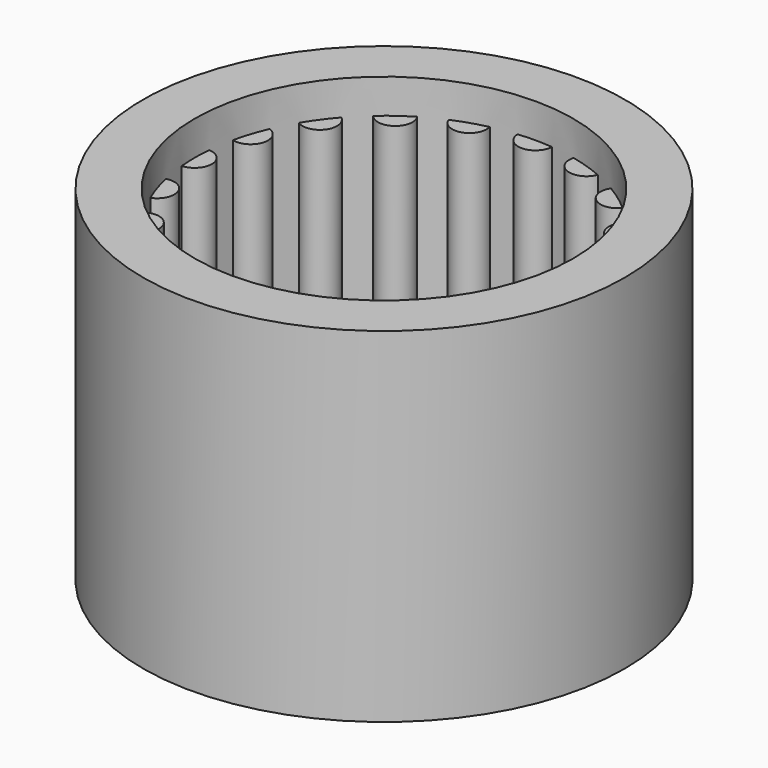
from build123d import *

# Parameters (mm, degrees)
F0_R          = 7
F0_R_2        = 5.5
F1_DEPTH      = 5
F1_DEPTH_BACK = 5
F2_R          = 0.5
F3_DEPTH      = 4
F3_DEPTH_BACK = 4


with BuildPart() as f1:
    # F0 (on Top) → F1 (new body, two sides)
    with BuildSketch(Plane.XY) as f1_sk:
        Circle(F0_R)
        Circle(F0_R_2, mode=Mode.SUBTRACT)
    extrude(amount=F1_DEPTH)
    extrude(f1_sk.sketch, amount=-F1_DEPTH_BACK)

    # F2 (on Top) → F3 (join, two sides)
    with BuildSketch(Plane.XY) as f3_sk:
        with Locations((0, 5.5)):
            Circle(F2_R)
        with Locations((-1.699593, 5.230811)):
            Circle(F2_R)
        with Locations((-3.232819, 4.449593)):
            Circle(F2_R)
        with Locations((-4.449593, 3.232819)):
            Circle(F2_R)
        with Locations((-5.230811, 1.699593)):
            Circle(F2_R)
        with Locations((-5.5, 0)):
            Circle(F2_R)
        with Locations((-5.230811, -1.699593)):
            Circle(F2_R)
        with Locations((-4.449593, -3.232819)):
            Circle(F2_R)
        with Locations((-3.232819, -4.449593)):
            Circle(F2_R)
        with Locations((-1.699593, -5.230811)):
            Circle(F2_R)
        with Locations((0, -5.5)):
            Circle(F2_R)
        with Locations((1.699593, -5.230811)):
            Circle(F2_R)
        with Locations((3.232819, -4.449593)):
            Circle(F2_R)
        with Locations((4.449593, -3.232819)):
            Circle(F2_R)
        with Locations((5.230811, -1.699593)):
            Circle(F2_R)
        with Locations((5.5, 0)):
            Circle(F2_R)
        with Locations((5.230811, 1.699593)):
            Circle(F2_R)
        with Locations((4.449593, 3.232819)):
            Circle(F2_R)
        with Locations((3.232819, 4.449593)):
            Circle(F2_R)
        with Locations((1.699593, 5.230811)):
            Circle(F2_R)
    extrude(amount=F3_DEPTH)
    extrude(f3_sk.sketch, amount=-F3_DEPTH_BACK)


solid = f1.part
